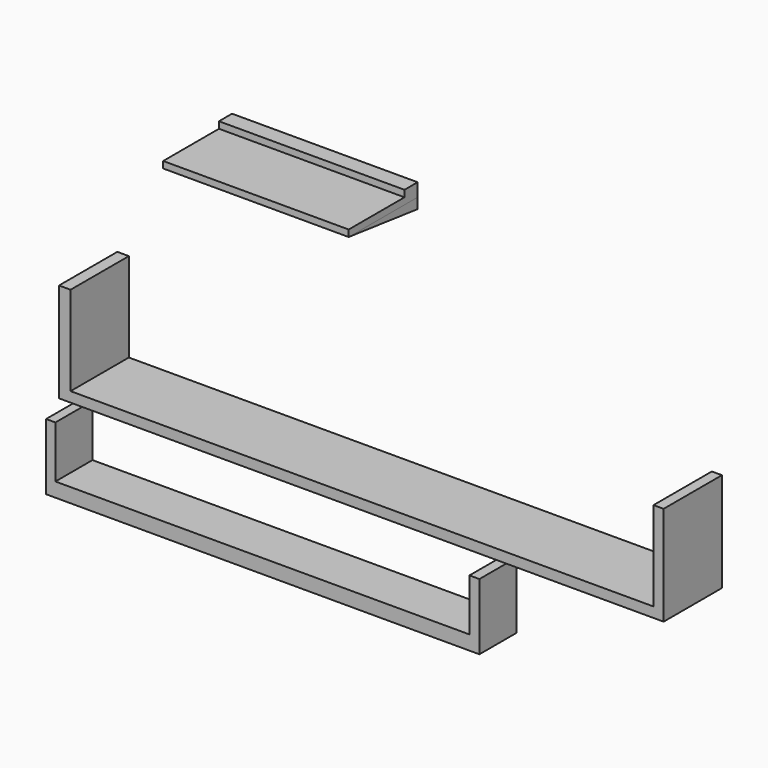
from build123d import *

# Parameters (mm, degrees)
F0_W     = 38.1
F0_H     = 199.295106
F0_W_2   = 1587.5
F0_H_2   = 54.704894
F1_DEPTH = 177.8
F2_W     = 2235.2
F2_H     = 38.724288
F3_DEPTH = 279.4
F4_W     = 711.375681
F4_H     = 25.4
F5_DEPTH = 330.2
F6_W     = 711.375681
F6_H     = 62.793948
F7_DEPTH = 25.4
F9_DEPTH = 711.2


with BuildPart() as f1:
    # F0 (on Front) → F1 (new body)
    with BuildSketch(Plane.XZ):
        with Locations((1093.769308, -184.400896)):
            Rectangle(F0_W, F0_H)
        Polygon((-512.780692, -338.753343), (-512.780692, -284.048449), (-512.780692, -84.753343), (-548.549298, -84.753343), (-548.549298, -338.753343), align=None)
        with Locations((280.969308, -311.400896)):
            Rectangle(F0_W_2, F0_H_2)
        with Locations((1093.769308, -311.400896)):
            Rectangle(F0_W, F0_H_2)
    extrude(amount=F1_DEPTH)


with BuildPart() as f3:
    # F2 (on Front) → F3 (new body)
    with BuildSketch(Plane.XZ):
        Polygon((-373.411894, 68.798818), (-373.411894, 107.523106), (-373.411894, 449.798818), (-417.668223, 449.798818), (-417.668223, 68.798818), align=None)
        Polygon((1861.788106, 449.798818), (1861.788106, 107.523106), (1861.788106, 68.798818), (1900.51235, 68.798818), (1900.51235, 449.798818), align=None)
        with Locations((744.188106, 88.160962)):
            Rectangle(F2_W, F2_H)
    extrude(amount=F3_DEPTH)


with BuildPart() as f5:
    # F4 (on Front) → F5 (new body)
    with BuildSketch(Plane.XZ):
        with Locations((377.992229, 1021.087446)):
            Rectangle(F4_W, F4_H)
    extrude(amount=F5_DEPTH)

    # F6 (on face) → F7 (join)
    with BuildSketch(Plane.XY.offset(1033.787446)):
        with Locations((377.992229, -31.396974)):
            Rectangle(F6_W, F6_H)
    extrude(amount=F7_DEPTH)

    # F8 (on face) → F9 (join)
    with BuildSketch(Plane(origin=(22.304388, 0, 0), x_dir=(0, -1, 0), z_dir=(-1, 0, 0))):
        Polygon((330.2, 1008.387446), (0, 1008.387446), (0, 968.193829), align=None)
    extrude(amount=-F9_DEPTH)


solid = Compound([f1.part, f3.part, f5.part])
